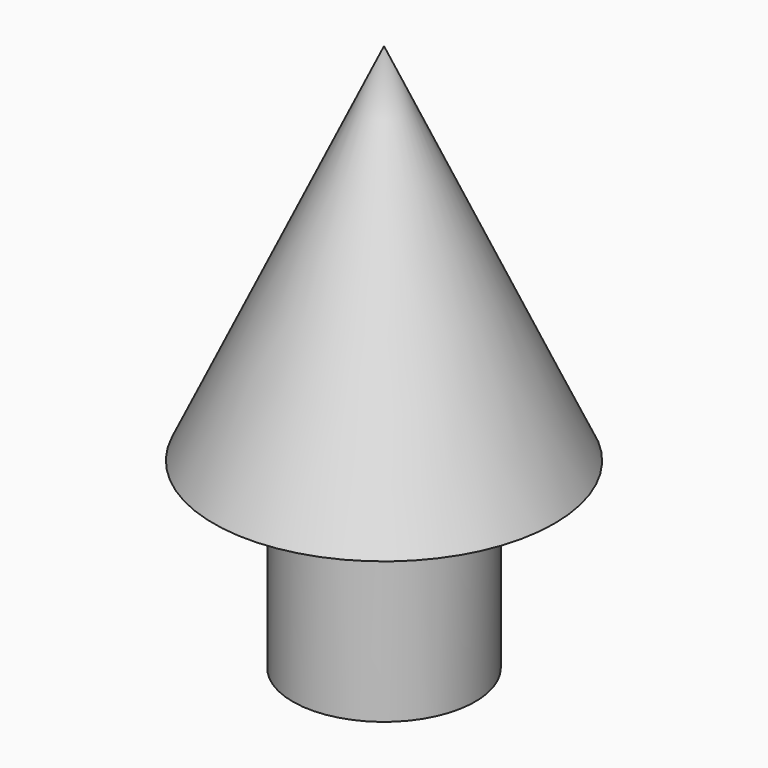
from build123d import *

# Parameters (mm, degrees)
F3_D     = 2.3749
F3_DEPTH = 4.1402
F3_TIP   = 0.7134919421


with BuildPart() as f1:
    # F0 (on Front) → F1 (revolve)
    with BuildSketch(Plane.XZ):
        Polygon((-3.175, 0), (0, 0), (0, 19.05), (-5.9281471776, 6.35), (-3.175, 6.35), align=None)
    revolve(axis=Axis((0, 0, 9.525), (0, 0, -1)))

    # F3
    with Locations(Plane(origin=(0, 0, 0), x_dir=(1, 0, 0), z_dir=(0, 0, -1))):
        with Locations((0, 0)):
            Hole(F3_D / 2, depth=F3_DEPTH)
            with Locations((0, 0, -(F3_DEPTH + F3_TIP / 2))):  # 118° drill point
                Cone(0, F3_D / 2, F3_TIP, mode=Mode.SUBTRACT)


solid = f1.part
